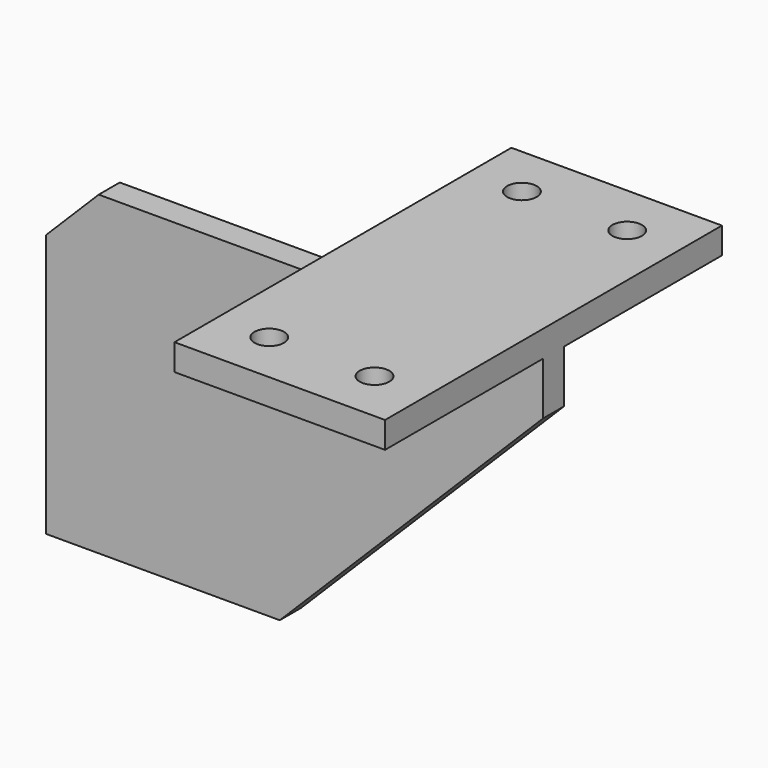
from build123d import *

# Parameters (mm, degrees)
F0_W     = 101.6
F0_H     = 12.7
F1_DEPTH = 101.6
F3_D     = 14.2875
F4_W     = 239.776
F4_H     = 152.4
F5_DEPTH = 6.35
F6_SIZE  = 25.4
F7_SIZE  = 127


with BuildPart() as f1:
    # F0 (on Front) → F1 (new body, symmetric)
    with BuildSketch(Plane.XZ):
        with Locations((50.8, 6.35)):
            Rectangle(F0_W, F0_H)
    extrude(amount=F1_DEPTH, both=True)

    # F3 (through all)
    with Locations(Plane.XY.offset(12.7)):
        with Locations((25.4, -76.2), (76.2, -76.2), (76.2, 76.2), (25.4, 76.2)):
            Hole(F3_D / 2)

    # F4 (on Front) → F5 (join, symmetric)
    with BuildSketch(Plane.XZ):
        with Locations((-18.288, -76.2)):
            Rectangle(F4_W, F4_H)
    extrude(amount=F5_DEPTH, both=True)

    # F6
    f6_edges = [f1.edges().sort_by_distance(p)[0] for p in [
        (-138.176, 0, 0),
    ]]
    chamfer(f6_edges, length=F6_SIZE)

    # F7
    f7_edges = [f1.edges().sort_by_distance(p)[0] for p in [
        (101.6, 0, -152.4),
    ]]
    chamfer(f7_edges, length=F7_SIZE)


solid = f1.part
